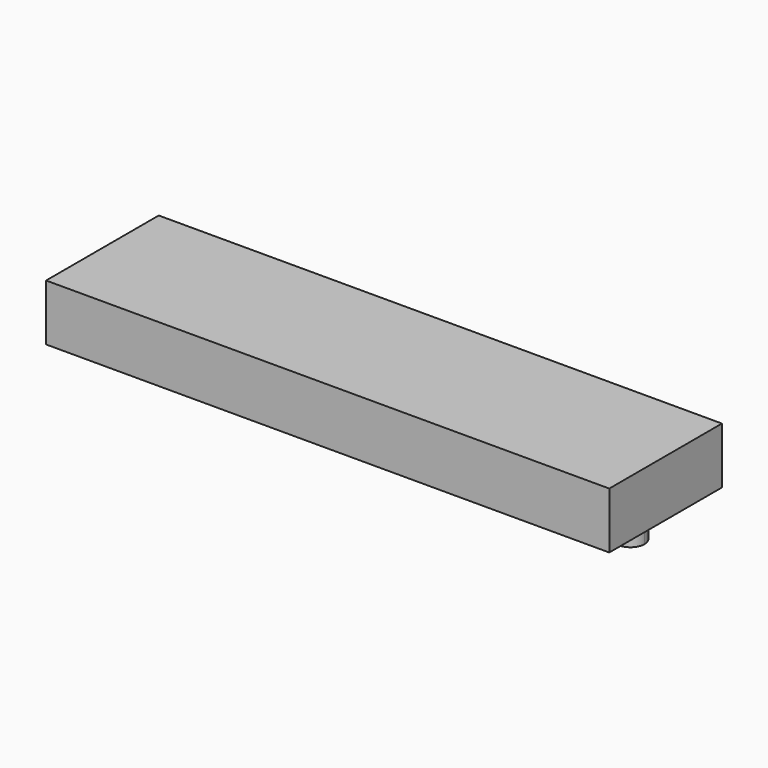
from build123d import *

# Parameters (mm, degrees)
F1_DEPTH = 5.08
F3_DEPTH = 2.54


with BuildPart() as f1:
    # F0 (on Top) → F1 (new body)
    with BuildSketch(Plane.XY):
        with BuildLine():
            Line((-20.9015028059, -22.4570848219), (-27.2515028059, -22.4570848219))
            Line((-27.2515028059, -22.4570848219), (-24.6444640722, -27.6711622893))
            ThreePointArc((-24.6444640722, -27.6711622893), (-23.4088242936, -27.7267582953), (-22.8065028059, -28.8070848219))
            ThreePointArc((-22.8065028059, -28.8070848219), (-22.9961762793, -29.4747633343), (-23.5085415397, -29.9430073545))
            Line((-23.5085415397, -29.9430073545), (-20.9015028059, -35.1570848219))
            Line((-20.9015028059, -35.1570848219), (-20.9015028059, -22.4570848219))
        make_face()
        with BuildLine():
            Line((-24.6444640722, -27.6711622893), (-27.2515028059, -22.4570848219))
            Line((-27.2515028059, -22.4570848219), (-27.2515028059, -35.1570848219))
            Line((-27.2515028059, -35.1570848219), (-20.9015028059, -35.1570848219))
            Line((-20.9015028059, -35.1570848219), (-23.5085415397, -29.9430073545))
            ThreePointArc((-23.5085415397, -29.9430073545), (-25.2124253385, -29.3750460882), (-24.6444640722, -27.6711622893))
        make_face()
        with BuildLine():
            ThreePointArc((-23.4415028059, -28.8070848219), (-23.7426635498, -28.2669215586), (-24.3604834391, -28.2391235556))
            Line((-24.3604834391, -28.2391235556), (-24.0765028059, -28.8070848219))
            Line((-24.0765028059, -28.8070848219), (-23.7925221728, -29.3750460882))
            ThreePointArc((-23.7925221728, -29.3750460882), (-23.5363395426, -29.1409240781), (-23.4415028059, -28.8070848219))
        make_face()
        with BuildLine():
            Line((-24.0765028059, -28.8070848219), (-24.3604834391, -28.2391235556))
            ThreePointArc((-24.3604834391, -28.2391235556), (-24.6444640722, -29.091065455), (-23.7925221728, -29.3750460882))
            Line((-23.7925221728, -29.3750460882), (-24.0765028059, -28.8070848219))
        make_face()
        with BuildLine():
            Line((-24.3604834391, -28.2391235556), (-24.6444640722, -27.6711622893))
            ThreePointArc((-24.6444640722, -27.6711622893), (-25.2124253385, -29.3750460882), (-23.5085415397, -29.9430073545))
            Line((-23.5085415397, -29.9430073545), (-23.7925221728, -29.3750460882))
            ThreePointArc((-23.7925221728, -29.3750460882), (-24.6444640722, -29.091065455), (-24.3604834391, -28.2391235556))
        make_face()
        with BuildLine():
            ThreePointArc((-22.8065028059, -28.8070848219), (-23.4088242936, -27.7267582953), (-24.6444640722, -27.6711622893))
            Line((-24.6444640722, -27.6711622893), (-24.3604834391, -28.2391235556))
            ThreePointArc((-24.3604834391, -28.2391235556), (-23.7426635498, -28.2669215586), (-23.4415028059, -28.8070848219))
            ThreePointArc((-23.4415028059, -28.8070848219), (-23.5363395426, -29.1409240781), (-23.7925221728, -29.3750460882))
            Line((-23.7925221728, -29.3750460882), (-23.5085415397, -29.9430073545))
            ThreePointArc((-23.5085415397, -29.9430073545), (-22.9961762793, -29.4747633343), (-22.8065028059, -28.8070848219))
        make_face()
        Polygon((-14.5515028059, -22.4570848219), (-20.9015028059, -22.4570848219), (-20.9015028059, -35.1570848219), (17.1984971941, -35.1570848219), (17.1984971941, -22.4570848219), (10.8484971941, -22.4570848219), (-1.8515028059, -22.4570848219), align=None)
        with BuildLine():
            Line((-20.9015028059, -22.4570848219), (-27.2515028059, -22.4570848219))
            Line((-27.2515028059, -22.4570848219), (-24.6444640722, -27.6711622893))
            ThreePointArc((-24.6444640722, -27.6711622893), (-23.4088242936, -27.7267582953), (-22.8065028059, -28.8070848219))
            ThreePointArc((-22.8065028059, -28.8070848219), (-22.9961762793, -29.4747633343), (-23.5085415397, -29.9430073545))
            Line((-23.5085415397, -29.9430073545), (-20.9015028059, -35.1570848219))
            Line((-20.9015028059, -35.1570848219), (-20.9015028059, -22.4570848219))
        make_face()
        with BuildLine():
            Line((20.3734971941, -28.8070848219), (20.0895165609, -29.3750460882))
            ThreePointArc((20.0895165609, -29.3750460882), (20.7073364502, -29.3472480852), (21.0084971941, -28.8070848219))
            ThreePointArc((21.0084971941, -28.8070848219), (20.9136604574, -28.4732455657), (20.6574778272, -28.2391235556))
            Line((20.6574778272, -28.2391235556), (20.3734971941, -28.8070848219))
        make_face()
        with BuildLine():
            ThreePointArc((20.6574778272, -28.2391235556), (19.8055359278, -28.5231041888), (20.0895165609, -29.3750460882))
            Line((20.0895165609, -29.3750460882), (20.3734971941, -28.8070848219))
            Line((20.3734971941, -28.8070848219), (20.6574778272, -28.2391235556))
        make_face()
        with BuildLine():
            ThreePointArc((20.9414584603, -27.6711622893), (19.2375746615, -28.2391235556), (19.8055359278, -29.9430073545))
            Line((19.8055359278, -29.9430073545), (20.0895165609, -29.3750460882))
            ThreePointArc((20.0895165609, -29.3750460882), (19.8055359278, -28.5231041888), (20.6574778272, -28.2391235556))
            Line((20.6574778272, -28.2391235556), (20.9414584603, -27.6711622893))
        make_face()
        with BuildLine():
            Line((20.0895165609, -29.3750460882), (19.8055359278, -29.9430073545))
            ThreePointArc((19.8055359278, -29.9430073545), (21.0411757064, -29.8874113485), (21.6434971941, -28.8070848219))
            ThreePointArc((21.6434971941, -28.8070848219), (21.4538237207, -28.1394063095), (20.9414584603, -27.6711622893))
            Line((20.9414584603, -27.6711622893), (20.6574778272, -28.2391235556))
            ThreePointArc((20.6574778272, -28.2391235556), (20.9136604574, -28.4732455657), (21.0084971941, -28.8070848219))
            ThreePointArc((21.0084971941, -28.8070848219), (20.7073364502, -29.3472480852), (20.0895165609, -29.3750460882))
        make_face()
        with BuildLine():
            Line((19.8055359278, -29.9430073545), (17.1984971941, -35.1570848219))
            Line((17.1984971941, -35.1570848219), (23.5484971941, -35.1570848219))
            Line((23.5484971941, -35.1570848219), (23.5484971941, -22.4570848219))
            Line((23.5484971941, -22.4570848219), (20.9414584603, -27.6711622893))
            ThreePointArc((20.9414584603, -27.6711622893), (21.4538237207, -28.1394063095), (21.6434971941, -28.8070848219))
            ThreePointArc((21.6434971941, -28.8070848219), (21.0411757064, -29.8874113485), (19.8055359278, -29.9430073545))
        make_face()
        with BuildLine():
            Line((17.1984971941, -22.4570848219), (17.1984971941, -35.1570848219))
            Line((17.1984971941, -35.1570848219), (19.8055359278, -29.9430073545))
            ThreePointArc((19.8055359278, -29.9430073545), (19.2375746615, -28.2391235556), (20.9414584603, -27.6711622893))
            Line((20.9414584603, -27.6711622893), (23.5484971941, -22.4570848219))
            Line((23.5484971941, -22.4570848219), (17.1984971941, -22.4570848219))
        make_face()
    extrude(amount=F1_DEPTH)

    # F2 (on face) → F3 (join)
    with BuildSketch(Plane(origin=(0, 0, 0), x_dir=(1, 0, 0), z_dir=(0, 0, -1))):
        with BuildLine():
            ThreePointArc((-22.8065028059, 28.8070848219), (-23.4088242936, 29.8874113485), (-24.6444640722, 29.9430073545))
            Line((-24.6444640722, 29.9430073545), (-24.3604834391, 29.3750460882))
            ThreePointArc((-24.3604834391, 29.3750460882), (-23.7426635498, 29.3472480852), (-23.4415028059, 28.8070848219))
            ThreePointArc((-23.4415028059, 28.8070848219), (-23.5363395426, 28.4732455657), (-23.7925221728, 28.2391235556))
            Line((-23.7925221728, 28.2391235556), (-23.5085415397, 27.6711622893))
            ThreePointArc((-23.5085415397, 27.6711622893), (-22.9961762793, 28.1394063095), (-22.8065028059, 28.8070848219))
        make_face()
        with BuildLine():
            Line((-24.3604834391, 29.3750460882), (-24.6444640722, 29.9430073545))
            ThreePointArc((-24.6444640722, 29.9430073545), (-25.2124253385, 28.2391235556), (-23.5085415397, 27.6711622893))
            Line((-23.5085415397, 27.6711622893), (-23.7925221728, 28.2391235556))
            ThreePointArc((-23.7925221728, 28.2391235556), (-24.6444640722, 28.5231041888), (-24.3604834391, 29.3750460882))
        make_face()
        with BuildLine():
            Line((20.0895165609, 29.3750460882), (19.8055359278, 29.9430073545))
            ThreePointArc((19.8055359278, 29.9430073545), (19.2375746615, 28.2391235556), (20.9414584603, 27.6711622893))
            Line((20.9414584603, 27.6711622893), (20.6574778272, 28.2391235556))
            ThreePointArc((20.6574778272, 28.2391235556), (19.8055359278, 28.5231041888), (20.0895165609, 29.3750460882))
        make_face()
        with BuildLine():
            ThreePointArc((21.6434971941, 28.8070848219), (21.0411757064, 29.8874113485), (19.8055359278, 29.9430073545))
            Line((19.8055359278, 29.9430073545), (20.0895165609, 29.3750460882))
            ThreePointArc((20.0895165609, 29.3750460882), (20.7073364502, 29.3472480852), (21.0084971941, 28.8070848219))
            ThreePointArc((21.0084971941, 28.8070848219), (20.9136604574, 28.4732455657), (20.6574778272, 28.2391235556))
            Line((20.6574778272, 28.2391235556), (20.9414584603, 27.6711622893))
            ThreePointArc((20.9414584603, 27.6711622893), (21.4538237207, 28.1394063095), (21.6434971941, 28.8070848219))
        make_face()
    extrude(amount=F3_DEPTH)


solid = f1.part
